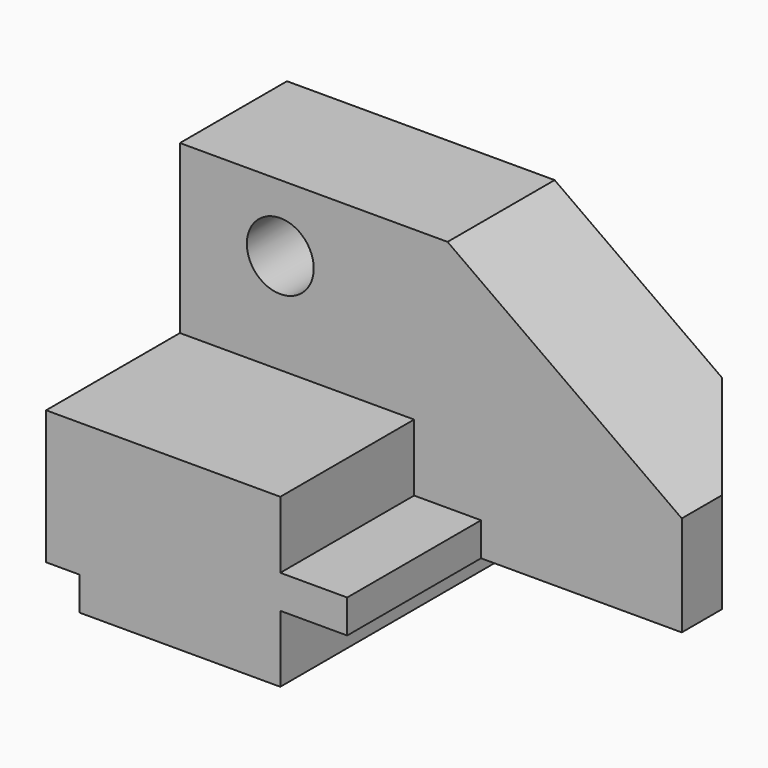
from build123d import *

# Parameters (mm, degrees)
F0_W      = 57.15
F0_H      = 63.5
F1_DEPTH  = 107.95
F2_W      = 6.35
F2_H      = 6.35
F3_DEPTH  = 57.151
F4_W      = 107.95
F4_H      = 31.75
F5_DEPTH  = 31.75
F6_W      = 63.5
F6_H      = 12.7
F7_DEPTH  = 31.75
F8_W      = 63.5
F8_H      = 12.7
F9_DEPTH  = 57.151
F10_W     = 50.8
F10_H     = 6.35
F11_DEPTH = 31.75
F12_W     = 12.7
F12_H     = 50.8
F13_DEPTH = 25.401
F15_DEPTH = 63.501
F17_DEPTH = 25.401
F18_R     = 6.35
F19_DEPTH = 25.401


with BuildPart() as f1:
    # F0 (on Right) → F1 (new body)
    with BuildSketch(Plane.YZ):
        with Locations((28.575, 31.75)):
            Rectangle(F0_W, F0_H)
    extrude(amount=F1_DEPTH)

    # F2 (on face) → F3 (cut, through all)
    with BuildSketch(Plane.XZ):
        with Locations((3.175, 3.175)):
            Rectangle(F2_W, F2_H)
    extrude(amount=-F3_DEPTH, mode=Mode.SUBTRACT)

    # F4 (on face) → F5 (cut)
    with BuildSketch(Plane.XZ):
        with Locations((53.975, 47.625)):
            Rectangle(F4_W, F4_H)
    extrude(amount=-F5_DEPTH, mode=Mode.SUBTRACT)

    # F6 (on face) → F7 (cut)
    with BuildSketch(Plane.XZ):
        with Locations((76.2, 25.4)):
            Rectangle(F6_W, F6_H)
    extrude(amount=-F7_DEPTH, mode=Mode.SUBTRACT)

    # F8 (on face) → F9 (cut, through all)
    with BuildSketch(Plane.XZ):
        with Locations((76.2, 6.35)):
            Rectangle(F8_W, F8_H)
    extrude(amount=-F9_DEPTH, mode=Mode.SUBTRACT)

    # F10 (on face) → F11 (cut)
    with BuildSketch(Plane.XZ):
        with Locations((82.55, 15.875)):
            Rectangle(F10_W, F10_H)
    extrude(amount=-F11_DEPTH, mode=Mode.SUBTRACT)

    # F12 (on face) → F13 (cut, through all)
    with BuildSketch(Plane.XZ.offset(-31.75)):
        with Locations((101.6, 38.1)):
            Rectangle(F12_W, F12_H)
    extrude(amount=-F13_DEPTH, mode=Mode.SUBTRACT)

    # F14 (on face) → F15 (cut, through all)
    with BuildSketch(Plane.XY.offset(63.5)):
        Polygon((82.55, 57.15), (95.25, 41.275), (95.25, 57.15), align=None)
    extrude(amount=-F15_DEPTH, mode=Mode.SUBTRACT)

    # F16 (on face) → F17 (cut, through all)
    with BuildSketch(Plane.XZ.offset(-31.75)):
        Polygon((95.25, 63.5), (50.8, 63.5), (95.25, 31.75), align=None)
    extrude(amount=-F17_DEPTH, mode=Mode.SUBTRACT)

    # F18 (on face) → F19 (cut, through all)
    with BuildSketch(Plane.XZ.offset(-31.75)):
        with Locations((19.05, 50.8)):
            Circle(F18_R)
    extrude(amount=-F19_DEPTH, mode=Mode.SUBTRACT)


solid = f1.part
